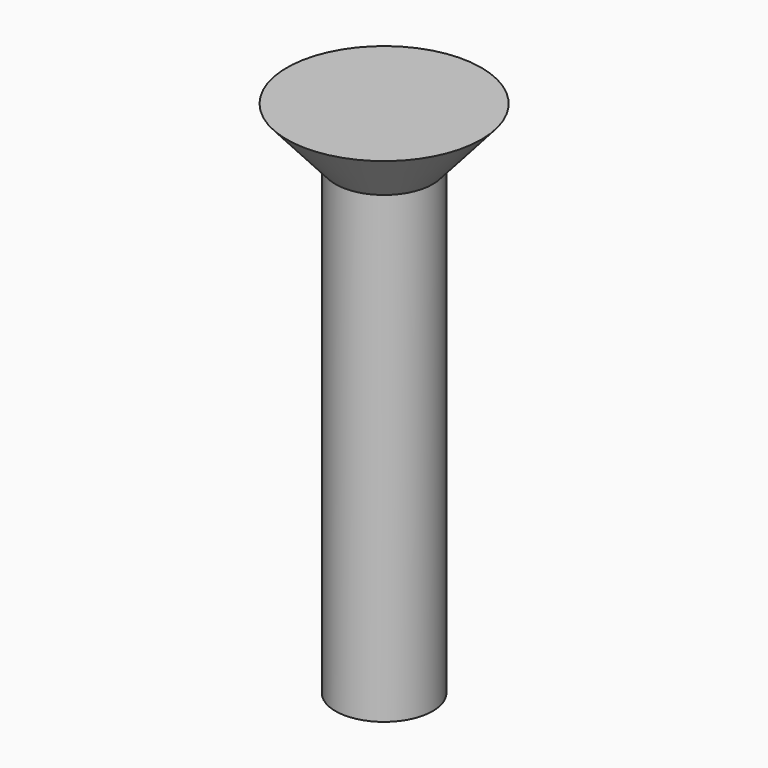
from build123d import *

# Parameters (mm, degrees)
F0_R     = 3
F2_R     = 1.5
F4_DEPTH = 14.3


with BuildPart() as f3:
    # F0 (on Top) → F3 section 0
    with BuildSketch(Plane.XY):
        Circle(F0_R)
    # F2 (on offset) → F3 section 1
    with BuildSketch(Plane.XY.offset(-1.7)):
        Circle(F2_R)
    loft()

    # F4 (add): a face of the model
    f4_faces = [f3.faces().sort_by_distance(p)[0] for p in [
        (0, 0, -1.7),
    ]]
    extrude(f4_faces, amount=F4_DEPTH)


solid = f3.part
